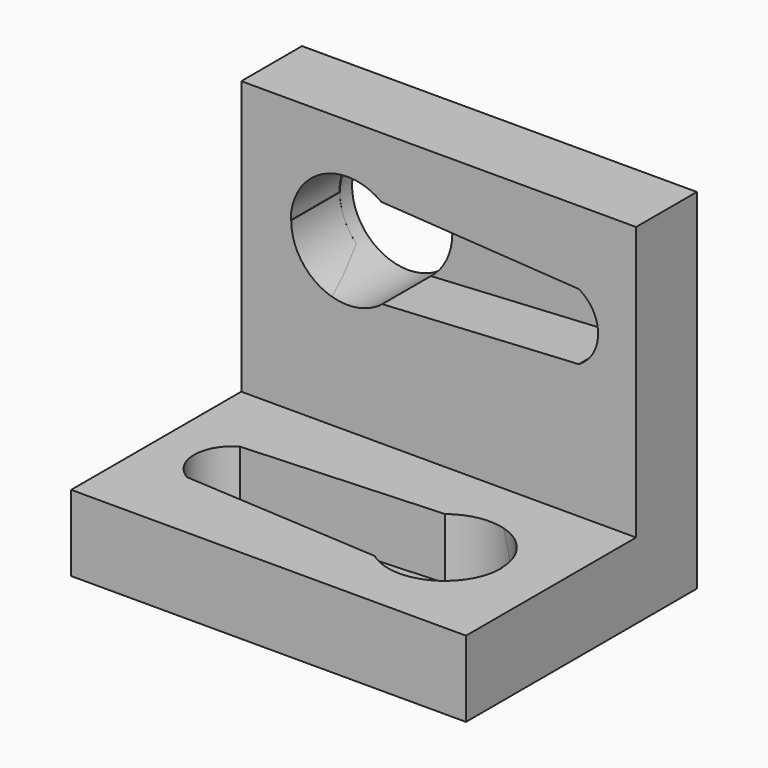
from build123d import *

# Parameters (mm, degrees)
CYLINDER021_R               = 3.7
CYLINDER021_DEPTH           = 8
CYLINDER021_ROLL_ANGLE      = 89.941329
CYLINDER021_PITCH_ANGLE     = 3.606623
CYLINDER021_PLACEMENT_ANGLE = -0.059115
PAD028_DEPTH                = 4
FUSION020_ROLL_ANGLE        = 90
FUSION020_PLACEMENT_ANGLE   = 180
BOX005_W                    = 26
BOX005_H                    = 23
BOX005_DEPTH                = 5
CUT025_ROLL_ANGLE           = -90
CUT025_PLACEMENT_ANGLE      = 180
CYLINDER020_R               = 3.7
CYLINDER020_DEPTH           = 8
CYLINDER020_ROLL_ANGLE      = 89.941329
CYLINDER020_PITCH_ANGLE     = 3.606623
CYLINDER020_PLACEMENT_ANGLE = -0.059115
PAD027_DEPTH                = 4
FUSION019_ROLL_ANGLE        = 90
FUSION019_PLACEMENT_ANGLE   = 180
BOX004_W                    = 26
BOX004_H                    = 19
BOX004_DEPTH                = 5


with BuildPart() as cylinder021:
    # Cylinder021 → Cylinder021 (new body)
    with BuildSketch(Plane.XY):
        Circle(CYLINDER021_R)
    extrude(amount=CYLINDER021_DEPTH)


with BuildPart() as cylinder021_1:
    # Cylinder021 roll: moved
    add(cylinder021.part.rotate(Axis((0, 0, 0), (1, 0, 0)), CYLINDER021_ROLL_ANGLE))


with BuildPart() as cylinder021_2:
    # Cylinder021 pitch: moved
    add(cylinder021_1.part.rotate(Axis((0, 0, 0), (0, 1, 0)), CYLINDER021_PITCH_ANGLE))


with BuildPart() as cylinder021_3:
    # Cylinder021 placement: moved
    add(cylinder021_2.part.moved(Location((21, 34, 6))).rotate(Axis((21, 34, 6), (0, 0, 1)), CYLINDER021_PLACEMENT_ANGLE))


with BuildPart() as obj1:
    # Sketch028 → Pad028 (new body)
    with BuildSketch(Plane.XZ):
        with BuildLine():
            Line((2.271009, 2.906046), (15.224101, 2.179811))
            ThreePointArc((15.224101, -2.179811), (16.5, 0), (15.224101, 2.179811))
            Line((2.224226, -3), (15.224101, -2.179811))
            ThreePointArc((-3.740092, 6.1e-05), (-1.682535, -3.33814), (2.224226, -3))
            Line((-3.709486, 6.1e-05), (-3.740092, 6.1e-05))
            ThreePointArc((2.271009, 2.906046), (-1.628642, 3.324599), (-3.709486, 6.1e-05))
        make_face()
    extrude(amount=PAD028_DEPTH)


with BuildPart() as obj1_1:
    # Body031 placement: moved
    add(obj1.part.moved(Location((21, 34, 6))))

    # Fusion020: union Cylinder021
    add(cylinder021_3.part)


with BuildPart() as obj1_2:
    # Fusion020 roll: moved
    add(obj1_1.part.rotate(Axis((0, 0, 0), (1, 0, 0)), FUSION020_ROLL_ANGLE))


with BuildPart() as obj1_3:
    # Fusion020 placement: moved
    add(obj1_2.part.moved(Location((40, -8, -37))).rotate(Axis((40, -8, -37), (0, 0, 1)), FUSION020_PLACEMENT_ANGLE))


with BuildPart() as cut025:
    # Box005 → Box005 (new body)
    with BuildSketch(Plane(origin=(0, -9, -8), x_dir=(1, 0, 0), z_dir=(0, 0, 1))):
        with Locations((13, 11.5)):
            Rectangle(BOX005_W, BOX005_H)
    extrude(amount=BOX005_DEPTH)

    # Cut025: cut obj1
    add(obj1_3.part, mode=Mode.SUBTRACT)


with BuildPart() as cut025_1:
    # Cut025 roll: moved
    add(cut025.part.rotate(Axis((0, 0, 0), (1, 0, 0)), CUT025_ROLL_ANGLE))


with BuildPart() as cut025_2:
    # Cut025 placement: moved
    add(cut025_1.part.moved(Location((26, 2, 6))).rotate(Axis((26, 2, 6), (0, 0, 1)), CUT025_PLACEMENT_ANGLE))


with BuildPart() as cylinder020:
    # Cylinder020 → Cylinder020 (new body)
    with BuildSketch(Plane.XY):
        Circle(CYLINDER020_R)
    extrude(amount=CYLINDER020_DEPTH)


with BuildPart() as cylinder020_1:
    # Cylinder020 roll: moved
    add(cylinder020.part.rotate(Axis((0, 0, 0), (1, 0, 0)), CYLINDER020_ROLL_ANGLE))


with BuildPart() as cylinder020_2:
    # Cylinder020 pitch: moved
    add(cylinder020_1.part.rotate(Axis((0, 0, 0), (0, 1, 0)), CYLINDER020_PITCH_ANGLE))


with BuildPart() as cylinder020_3:
    # Cylinder020 placement: moved
    add(cylinder020_2.part.moved(Location((21, 34, 6))).rotate(Axis((21, 34, 6), (0, 0, 1)), CYLINDER020_PLACEMENT_ANGLE))


with BuildPart() as obj2:
    # Sketch027 → Pad027 (new body)
    with BuildSketch(Plane.XZ):
        with BuildLine():
            Line((2.271009, 2.906046), (15.224101, 2.179811))
            ThreePointArc((15.224101, -2.179811), (16.5, 0), (15.224101, 2.179811))
            Line((2.224226, -3), (15.224101, -2.179811))
            ThreePointArc((-3.740092, 6.1e-05), (-1.682535, -3.33814), (2.224226, -3))
            Line((-3.709486, 6.1e-05), (-3.740092, 6.1e-05))
            ThreePointArc((2.271009, 2.906046), (-1.628642, 3.324599), (-3.709486, 6.1e-05))
        make_face()
    extrude(amount=PAD027_DEPTH)


with BuildPart() as obj2_1:
    # Body030 placement: moved
    add(obj2.part.moved(Location((21, 34, 6))))

    # Fusion019: union Cylinder020
    add(cylinder020_3.part)


with BuildPart() as obj2_2:
    # Fusion019 roll: moved
    add(obj2_1.part.rotate(Axis((0, 0, 0), (1, 0, 0)), FUSION019_ROLL_ANGLE))


with BuildPart() as obj2_3:
    # Fusion019 placement: moved
    add(obj2_2.part.moved(Location((40, -8, -37))).rotate(Axis((40, -8, -37), (0, 0, 1)), FUSION019_PLACEMENT_ANGLE))


with BuildPart() as fusion021:
    # Box004 → Box004 (new body)
    with BuildSketch(Plane(origin=(0, -9, -8), x_dir=(1, 0, 0), z_dir=(0, 0, 1))):
        with Locations((13, 9.5)):
            Rectangle(BOX004_W, BOX004_H)
    extrude(amount=BOX004_DEPTH)

    # Cut024: cut obj2
    add(obj2_3.part, mode=Mode.SUBTRACT)

    # Fusion021: union Cut025
    add(cut025_2.part)


solid = fusion021.part
